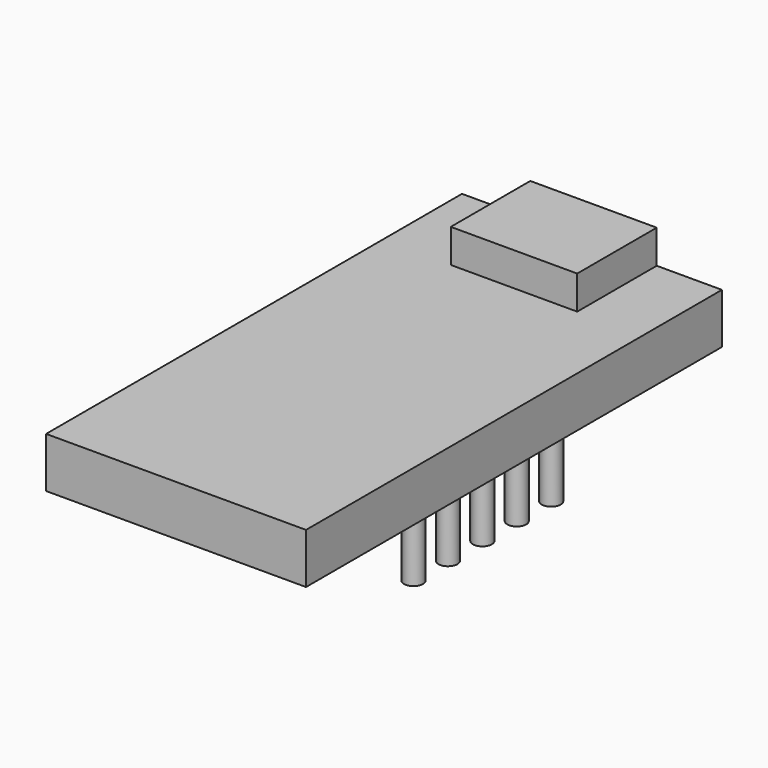
from build123d import *

# Parameters (mm, degrees)
F0_W     = 15.5
F0_H     = 31
F1_DEPTH = 5
F2_R     = 0.564605
F3_DEPTH = 4
F5_DEPTH = 2


with BuildPart() as f1:
    # F0 (on Top) → F1 (new body)
    with BuildSketch(Plane.XY):
        with Locations((7.75, -15.5)):
            Rectangle(F0_W, F0_H)
    extrude(amount=F1_DEPTH)

    # F2 (on face) → F3 (join)
    with BuildSketch(Plane(origin=(0, 0, 0), x_dir=(1, 0, 0), z_dir=(0, 0, -1))):
        with Locations((1.347199, 21.362342)):
            Circle(F2_R)
        with Locations((1.347199, 18.796942)):
            Circle(F2_R)
        with Locations((1.347199, 16.231542)):
            Circle(F2_R)
        with Locations((1.347199, 13.666142)):
            Circle(F2_R)
        with Locations((1.347199, 11.100742)):
            Circle(F2_R)
        with Locations((14.199599, 21.362342)):
            Circle(F2_R)
        with Locations((14.199599, 18.796942)):
            Circle(F2_R)
        with Locations((14.199599, 16.231542)):
            Circle(F2_R)
        with Locations((14.199599, 13.666142)):
            Circle(F2_R)
        with Locations((14.199599, 11.100742)):
            Circle(F2_R)
    extrude(amount=F3_DEPTH)

    # F4 (on face) → F5 (cut)
    with BuildSketch(Plane.XY.offset(5)):
        Polygon((4.07275, -5.926542), (4.07275, 0), (0, 0), (0, -31), (15.5, -31), (15.5, 0), (11.611941, 0), (11.611941, -5.926542), align=None)
    extrude(amount=-F5_DEPTH, mode=Mode.SUBTRACT)


solid = f1.part
